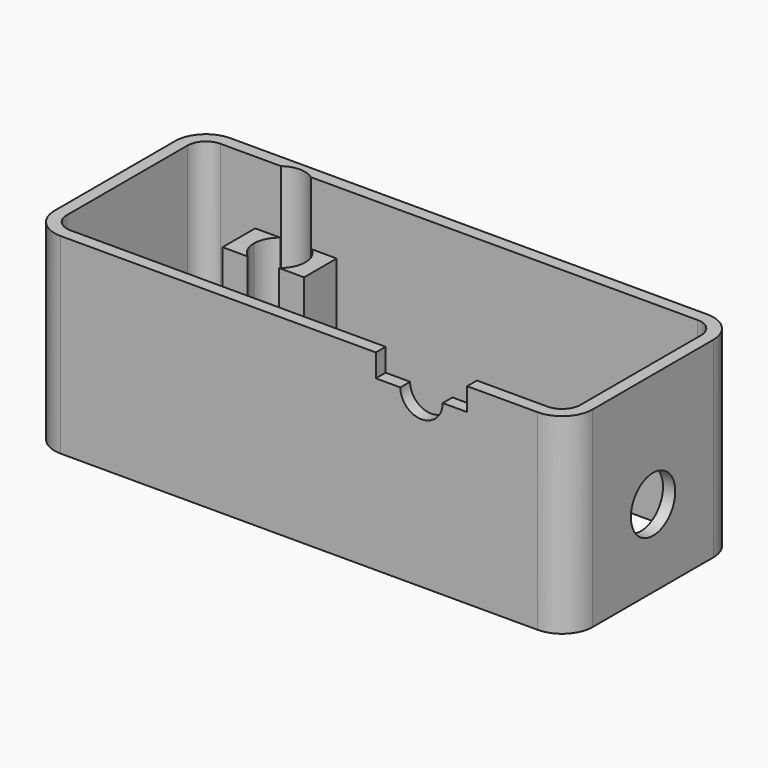
from build123d import *

# Parameters (mm, degrees)
PAD_DEPTH       = 23.5
SKETCH014_W     = 8
SKETCH014_H     = 0.8
POCKET001_DEPTH = 0.7
SKETCH015_W     = 5.25
SKETCH015_H     = 1
POCKET002_DEPTH = 0.5
SKETCH020_R     = 3.4
POCKET005_DEPTH = 1.5
POCKET006_DEPTH = 1.5
SKETCH025_R     = 3.1
POCKET008_DEPTH = 23.5
PAD015_DEPTH    = 15.75
SKETCH029_W     = 10
SKETCH029_H     = 5
POCKET009_DEPTH = 0.7


with BuildPart() as part:
    # Sketch → Pad (new body)
    with BuildSketch(Plane.XY.offset(6)):
        with BuildLine():
            Line((-29.25, 13), (29.25, 13))
            ThreePointArc((33, 9.25), (31.9016504294, 11.9016504294), (29.25, 13))
            Line((33, 9.25), (33, -9.25))
            ThreePointArc((29.25, -13), (31.9016504295, -11.9016504294), (33, -9.25))
            Line((29.25, -13), (-29.25, -13))
            ThreePointArc((-33, -9.25), (-31.9016504294, -11.9016504295), (-29.25, -13))
            Line((-33, -9.25), (-33, 9.25))
            ThreePointArc((-29.25, 13), (-31.9016504294, 11.9016504294), (-33, 9.25))
        make_face()
        with BuildLine():
            Line((-29.25, 11.5), (29.25, 11.5))
            ThreePointArc((31.5, 9.25), (30.8409902577, 10.8409902577), (29.25, 11.5))
            Line((31.5, 9.25), (31.5, -9.25))
            ThreePointArc((29.25, -11.5), (30.8409902577, -10.8409902577), (31.5, -9.25))
            Line((29.25, -11.5), (-29.25, -11.5))
            ThreePointArc((-31.5, -9.25), (-30.8409902577, -10.8409902577), (-29.25, -11.5))
            Line((-31.5, -9.25), (-31.5, 9.25))
            ThreePointArc((-29.25, 11.5), (-30.8409902577, 10.8409902577), (-31.5, 9.25))
        make_face(mode=Mode.SUBTRACT)
    extrude(amount=-PAD_DEPTH)

    # Sketch014 → Pocket001 (cut)
    with BuildSketch(Plane(origin=(0, -11.5, 6), x_dir=(-1, 0, 0), z_dir=(0, 1, 0))):
        with Locations((0, -21.9)):
            Rectangle(SKETCH014_W, SKETCH014_H)
    extrude(amount=-POCKET001_DEPTH, mode=Mode.SUBTRACT)

    # Sketch015 → Pocket002 (cut)
    with BuildSketch(Plane(origin=(0, 11.5, 6), x_dir=(1, 0, 0), z_dir=(0, -1, 0))):
        with Locations((-10.475, -22.55)):
            Rectangle(SKETCH015_W, SKETCH015_H)
        with Locations((10.475, -22.55)):
            Rectangle(SKETCH015_W, SKETCH015_H)
    extrude(amount=-POCKET002_DEPTH, mode=Mode.SUBTRACT)

    # Sketch020 → Pocket005 (cut)
    with BuildSketch(Plane(origin=(33, 0, 6), x_dir=(0, 1, 0), z_dir=(1, 0, 0))):
        with Locations((0, -14)):
            Circle(SKETCH020_R)
    extrude(amount=-POCKET005_DEPTH, mode=Mode.SUBTRACT)

    # Sketch022 → Pocket006 (cut)
    with BuildSketch(Plane(origin=(0, -13, 6), x_dir=(1, 0, 0), z_dir=(0, -1, 0))):
        with BuildLine():
            ThreePointArc((12.4, -2.8), (15, -5.4), (17.6, -2.8))
            Line((17.6, -2.8), (20.6, -2.8))
            Line((20.6, -2.8), (20.6, 0.1))
            Line((9.4, 0.1), (20.6, 0.1))
            Line((9.4, -2.8), (9.4, 0.1))
            Line((12.4, -2.8), (9.4, -2.8))
        make_face()
    extrude(amount=-POCKET006_DEPTH, mode=Mode.SUBTRACT)

    # Sketch025 → Pocket008 (cut)
    with BuildSketch(Plane(origin=(0, 0, -17.5), x_dir=(1, 0, 0), z_dir=(0, 0, -1))):
        with Locations((-20, -9)):
            Circle(SKETCH025_R)
    extrude(amount=-POCKET008_DEPTH, mode=Mode.SUBTRACT)

    # Sketch026 → Pad015 (new body)
    with BuildSketch(Plane(origin=(0, 0, -17.5), x_dir=(1, 0, 0), z_dir=(0, 0, -1))):
        with BuildLine():
            Line((-15, -6.5), (-18.0836232103, -6.5))
            ThreePointArc((-16.85, -9), (-17.1751914324, -7.6061002345), (-18.0836232103, -6.5))
            ThreePointArc((-18.0836232103, -11.5), (-17.1751914324, -10.3938997655), (-16.85, -9))
            Line((-18.0836232103, -11.5), (-15, -11.5))
            Line((-15, -6.5), (-15, -11.5))
        make_face()
        with BuildLine():
            Line((-25, -11.5), (-21.9163767897, -11.5))
            ThreePointArc((-23.15, -9), (-22.8248085676, -10.3938997655), (-21.9163767897, -11.5))
            ThreePointArc((-21.9163767897, -6.5), (-22.8248085676, -7.6061002345), (-23.15, -9))
            Line((-21.9163767897, -6.5), (-25, -6.5))
            Line((-25, -6.5), (-25, -11.5))
        make_face()
    extrude(amount=-PAD015_DEPTH)

    # Sketch029 → Pocket009 (cut)
    with BuildSketch(Plane(origin=(0, 0, -17.5), x_dir=(1, 0, 0), z_dir=(0, 0, -1))):
        with Locations((-20, -9)):
            Rectangle(SKETCH029_W, SKETCH029_H)
    extrude(amount=-POCKET009_DEPTH, mode=Mode.SUBTRACT)


solid = part.part
